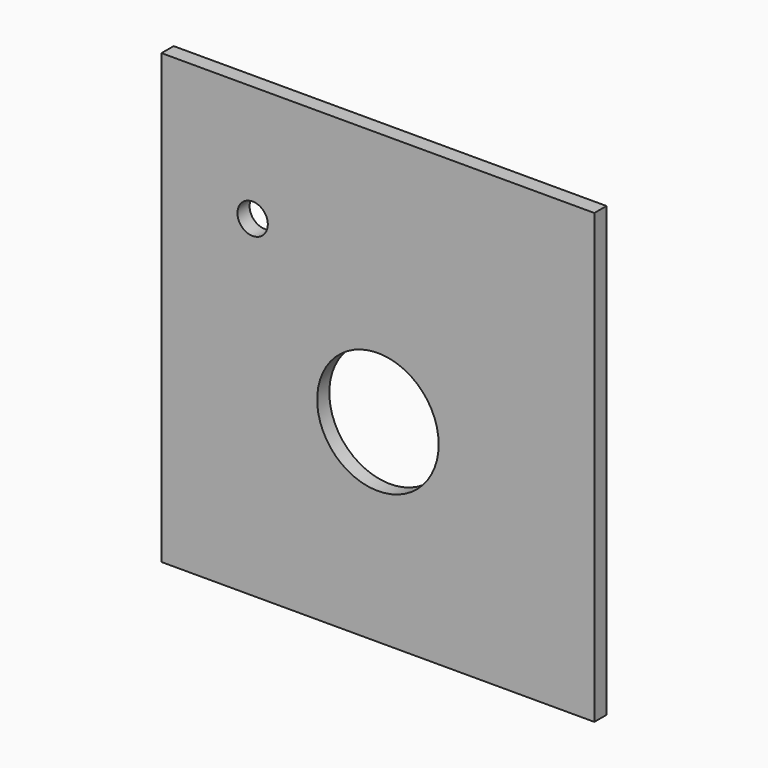
from build123d import *

# Parameters (mm, degrees)
F0_W      = 28.5
F0_H      = 29.5
F1_DEPTH  = 1
F3_R      = 4
F4_DEPTH  = 25
F5_R      = 8.6
F5_R_2    = 6.6
F6_DEPTH  = 0.6
F7_R      = 8.6
F7_R_2    = 7.6
F8_DEPTH  = 2.5
F9_R      = 1
F10_DEPTH = 25


with BuildPart() as f1:
    # F0 (on Front) → F1 (new body)
    with BuildSketch(Plane.XZ):
        with Locations((0, 2)):
            Rectangle(F0_W, F0_H)
    extrude(amount=F1_DEPTH)

    # F3 (on Front) → F4 (cut)
    with BuildSketch(Plane.XZ):
        Circle(F3_R)
    extrude(amount=F4_DEPTH, mode=Mode.SUBTRACT)

    # F5 (on face) → F6 (join)
    with BuildSketch(Plane(origin=(0, 0, 0), x_dir=(-1, 0, 0), z_dir=(0, 1, 0))):
        Circle(F5_R)
        Circle(F5_R_2, mode=Mode.SUBTRACT)
    extrude(amount=F6_DEPTH)

    # F7 (on face) → F8 (join)
    with BuildSketch(Plane(origin=(0, 0.6, 0), x_dir=(-1, 0, 0), z_dir=(0, 1, 0))):
        Circle(F7_R)
        Circle(F7_R_2, mode=Mode.SUBTRACT)
    extrude(amount=F8_DEPTH)

    # F9 (on face) → F10 (cut)
    with BuildSketch(Plane(origin=(0, 0, 0), x_dir=(-1, 0, 0), z_dir=(0, 1, 0))):
        with Locations((8.25, 9.1)):
            Circle(F9_R)
    extrude(amount=-F10_DEPTH, mode=Mode.SUBTRACT)


solid = f1.part
